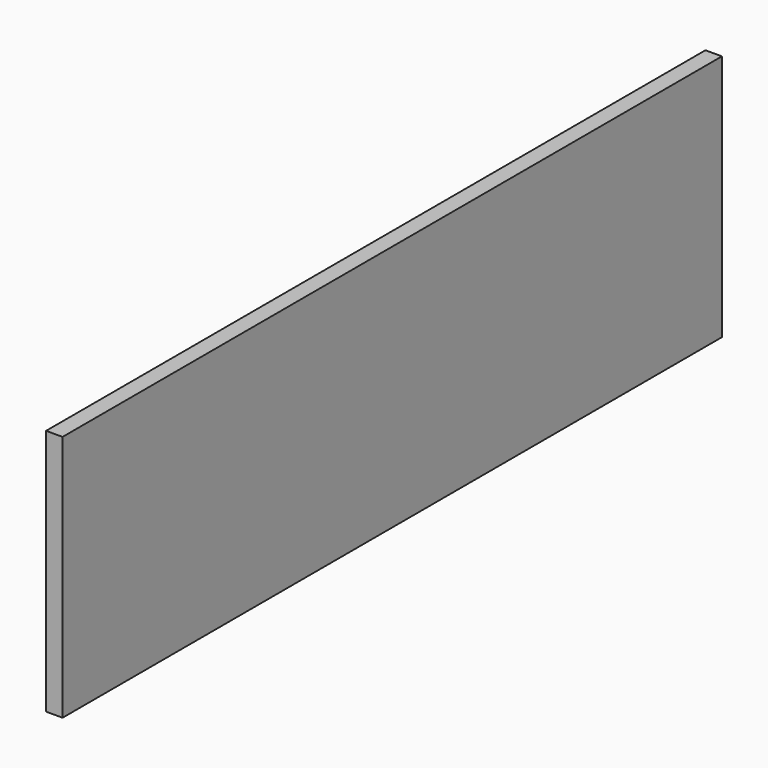
from build123d import *

# Parameters (mm, degrees)
PAD_DEPTH = 10


with BuildPart() as part:
    # Sketch → Pad (new body)
    with BuildSketch(Plane.YZ):
        Polygon((0, 0), (0, 150), (500, 150), (500, 0), (250, 0), align=None)
    extrude(amount=-PAD_DEPTH)


solid = part.part
